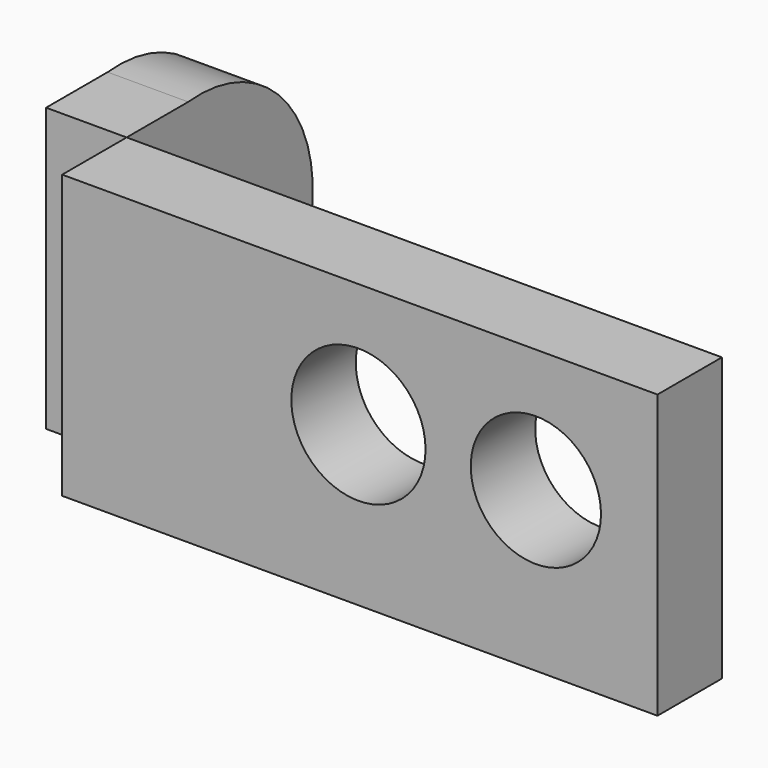
from build123d import *

# Parameters (mm, degrees)
F0_W     = 187.691092
F0_H     = 89.164418
F0_R     = 21.158954
F0_R_2   = 20.53324
F1_DEPTH = 25.4
F2_R     = 17.186662
F3_DEPTH = 25.4


with BuildPart() as f1:
    # F0 (on Front) → F1 (new body)
    with BuildSketch(Plane.XZ):
        with Locations((0.445828, -5.572779)):
            Rectangle(F0_W, F0_H)
        Circle(F0_R, mode=Mode.SUBTRACT)
        with Locations((55.950683, 0)):
            Circle(F0_R_2, mode=Mode.SUBTRACT)
    extrude(amount=F1_DEPTH)


with BuildPart() as f3:
    # F2 (on face) → F3 (new body)
    with BuildSketch(Plane(origin=(-93.399718, 0, 0), x_dir=(0, -1, 0), z_dir=(-1, 0, 0))):
        with BuildLine():
            Line((0, -50.154988), (0, 39.00943))
            Line((0, 39.00943), (-24.267305, 39.00943))
            ThreePointArc((-24.267305, 39.00943), (-73.377954, -5.572779), (-24.267305, -50.154988))
            Line((-24.267305, -50.154988), (0, -50.154988))
        make_face()
        with Locations((-28.586964, -5.572779)):
            Circle(F2_R, mode=Mode.SUBTRACT)
    extrude(amount=F3_DEPTH)


solid = Compound([f1.part, f3.part])
